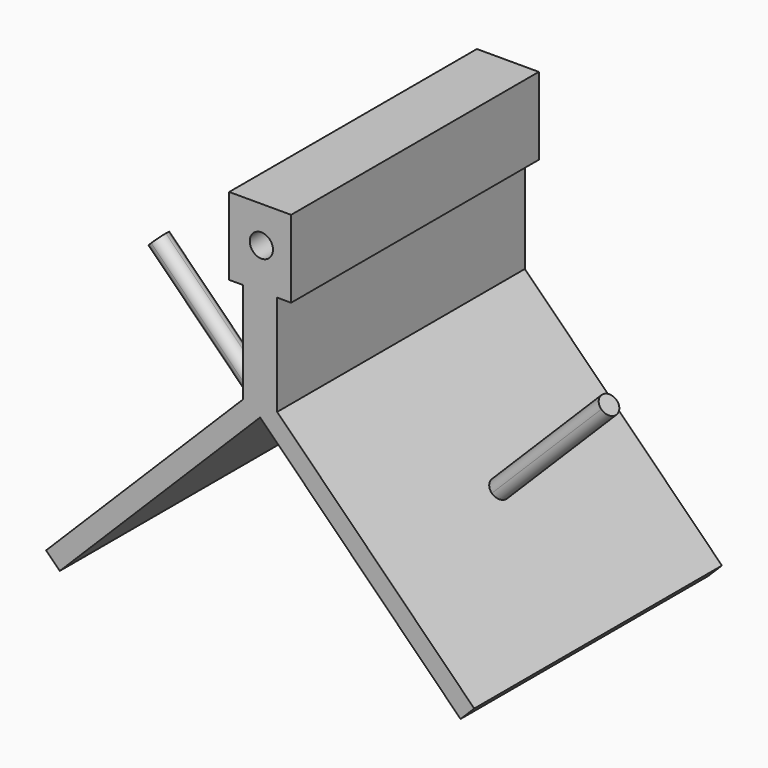
from build123d import *

# Parameters (mm, degrees)
F1_DEPTH = 50.8
F2_R     = 1.905
F3_DEPTH = 17.78
F6_DEPTH = 25.4
F8_DEPTH = 25.4
F4_R     = 1.905
F9_DEPTH = 17.78


with BuildPart() as f1:
    # F0 (on Front) → F1 (new body)
    with BuildSketch(Plane.XZ):
        Polygon((-9.1096315365, 61.225563957), (-19.2696315365, 61.225563957), (-19.2696315365, 48.525563957), (-16.9836315365, 48.525563957), (-16.9836315365, 32.015563957), (-14.1896315365, 32.015563957), (-11.3956315365, 32.015563957), (-11.3956315365, 48.525563957), (-9.1096315365, 48.525563957), align=None)
        Polygon((-14.1896315365, 32.015563957), (-16.9836315365, 32.015563957), (-49.3125535723, -0.3133580789), (-47.0674895421, -2.5584221091), (-14.1896315365, 30.3194358965), align=None)
        Polygon((-11.3956315365, 32.015563957), (-14.1896315365, 32.015563957), (-14.1896315365, 30.3194358965), (18.6882264691, -2.5584221091), (20.9332904994, -0.3133580789), align=None)
    extrude(amount=F1_DEPTH)

    # F2 (on face) → F3 (cut)
    with BuildSketch(Plane(origin=(0, 0, 0), x_dir=(-1, 0, 0), z_dir=(0, 1, 0))):
        with Locations((14.1358394176, 55.2771948278)):
            Circle(F2_R)
    extrude(amount=-F3_DEPTH, mode=Mode.SUBTRACT)

    # F5 (on face) → F6 (join)
    with BuildSketch(Plane(origin=(10.3099662102, 0, 10.3099662102), x_dir=(0.7071067812, 0, -0.7071067812), z_dir=(0.7071067812, 0, 0.7071067812))):
        with BuildLine():
            Line((-7.8363507129, -25.4), (-7.8363507129, -23.8125))
            ThreePointArc((-7.8363507129, -23.8125), (-8.958882728, -24.2774679849), (-9.4238507129, -25.4))
            Line((-9.4238507129, -25.4), (-7.8363507129, -25.4))
        make_face()
        with BuildLine():
            Line((-7.8363507129, -25.4), (-6.2488507129, -25.4))
            ThreePointArc((-6.2488507129, -25.4), (-6.7138186977, -24.2774679849), (-7.8363507129, -23.8125))
            Line((-7.8363507129, -23.8125), (-7.8363507129, -25.4))
        make_face()
        with BuildLine():
            ThreePointArc((-9.4238507129, -25.4), (-8.958882728, -26.5225320151), (-7.8363507129, -26.9875))
            Line((-7.8363507129, -26.9875), (-7.8363507129, -25.4))
            Line((-7.8363507129, -25.4), (-9.4238507129, -25.4))
        make_face()
        with BuildLine():
            ThreePointArc((-7.8363507129, -26.9875), (-6.7138186977, -26.5225320151), (-6.2488507129, -25.4))
            Line((-6.2488507129, -25.4), (-7.8363507129, -25.4))
            Line((-7.8363507129, -25.4), (-7.8363507129, -26.9875))
        make_face()
    extrude(amount=F6_DEPTH)

    # F7 (on face) → F8 (join)
    with BuildSketch(Plane(origin=(-24.4995977467, 0, 24.4995977467), x_dir=(0, -1, 0), z_dir=(-0.7071067812, 0, 0.7071067812))):
        with BuildLine():
            ThreePointArc((26.9875, -12.2308186511), (26.5225320151, -11.108286636), (25.4, -10.6433186511))
            Line((25.4, -10.6433186511), (25.4, -12.2308186511))
            Line((25.4, -12.2308186511), (26.9875, -12.2308186511))
        make_face()
        with BuildLine():
            Line((26.9875, -12.2308186511), (25.4, -12.2308186511))
            Line((25.4, -12.2308186511), (25.4, -13.8183186511))
            ThreePointArc((25.4, -13.8183186511), (26.5225320151, -13.3533506663), (26.9875, -12.2308186511))
        make_face()
        with BuildLine():
            Line((25.4, -12.2308186511), (23.8125, -12.2308186511))
            ThreePointArc((23.8125, -12.2308186511), (24.2774679849, -13.3533506663), (25.4, -13.8183186511))
            Line((25.4, -13.8183186511), (25.4, -12.2308186511))
        make_face()
        with BuildLine():
            Line((25.4, -12.2308186511), (25.4, -10.6433186511))
            ThreePointArc((25.4, -10.6433186511), (24.2774679849, -11.108286636), (23.8125, -12.2308186511))
            Line((23.8125, -12.2308186511), (25.4, -12.2308186511))
        make_face()
    extrude(amount=F8_DEPTH)

    # F4 (on face) → F9 (cut)
    with BuildSketch(Plane.XZ.offset(50.8)):
        with Locations((-13.9896953478, 55.213548243)):
            Circle(F4_R)
    extrude(amount=-F9_DEPTH, mode=Mode.SUBTRACT)


solid = f1.part
